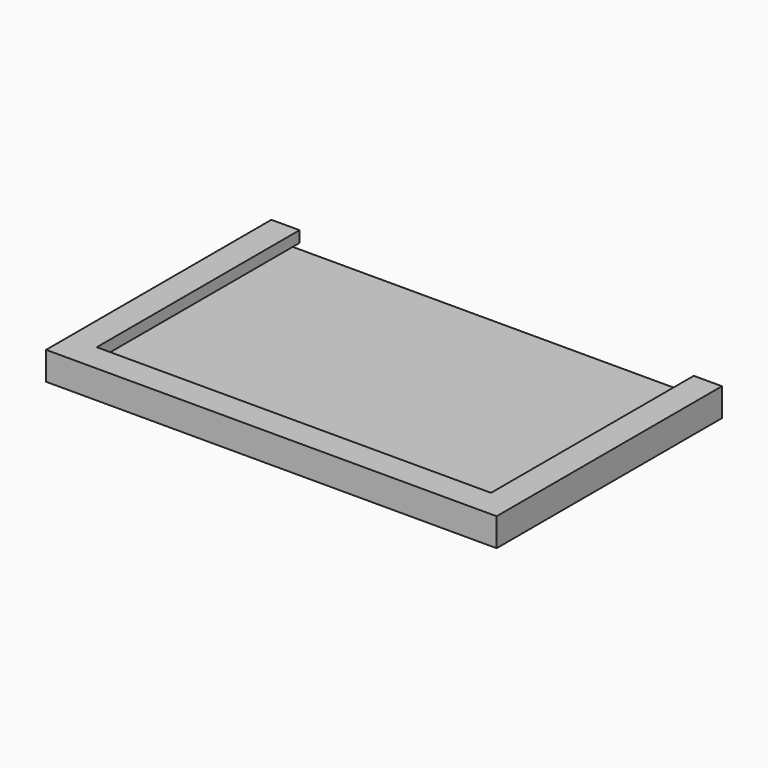
from build123d import *

# Parameters (mm, degrees)
F0_W      = 21
F0_H      = 14
F1_DEPTH  = 3
F2_W      = 7
F2_H      = 14
F3_DEPTH  = 1.5
F5_W      = 80
F5_H      = 50
F6_DEPTH  = 2
F8_DEPTH  = 1
F10_DEPTH = 2


with BuildPart() as f1:
    # F0 (on Top) → F1 (new body)
    with BuildSketch(Plane.XY):
        Rectangle(F0_W, F0_H)
    extrude(amount=F1_DEPTH)

    # F2 (on face) → F3 (join)
    with BuildSketch(Plane.XY.offset(3)):
        Rectangle(F2_W, F2_H)
    extrude(amount=F3_DEPTH)

    # F4: F1 across face


with BuildPart() as f1_1:
    add(f1.part)
    add(f1.part.mirror(Plane.XY.offset(4.5)))

    # F5 (on face) → F6 (join)
    with BuildSketch(Plane.XY.offset(9)):
        with Locations((0, -18)):
            Rectangle(F5_W, F5_H)
    extrude(amount=F6_DEPTH)

    # F7 (on face) → F8 (join)
    with BuildSketch(Plane.XY.offset(11)):
        Polygon((-38, 7), (-40, 7), (-40, -43), (40, -43), (40, 7), (38, 7), (38, -41), (-38, -41), align=None)
    extrude(amount=F8_DEPTH)

    # F9 (on face) → F10 (join)
    with BuildSketch(Plane.XY.offset(12)):
        Polygon((-35, 7), (-40, 7), (-40, -43), (40, -43), (40, 7), (35, 7), (35, -38), (-35, -38), align=None)
    extrude(amount=F10_DEPTH)


solid = f1_1.part
